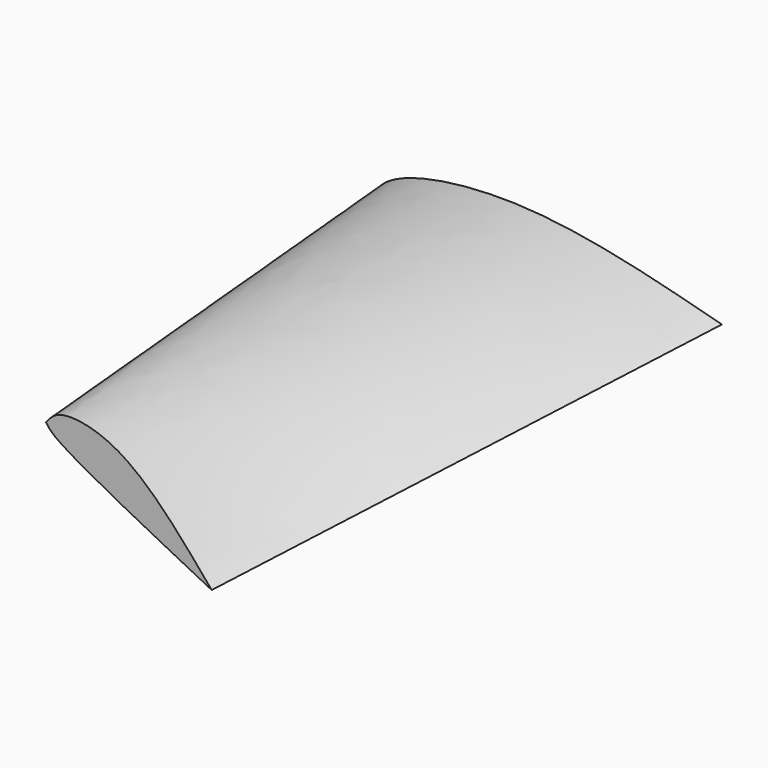
from build123d import *


with BuildPart() as f3:
    # F0 (on Front) → F3 section 0
    with BuildSketch(Plane.XZ):
        with BuildLine():
            add(Edge.make_bspline(
                [(-58.2351274788, 0), (-57.635624982, 3.5772535481), (-48.1657009493, 12.4011298851), (3.6110115175, 19.2634854332), (51.5301322159, 6.5342190648), (76.1276558042, 0)],
                knots=[0, 0, 0, 0, 0.1840456661, 0.5463531507, 1, 1, 1, 1], degree=3))
            add(Edge.make_bspline(
                [(-58.2351274788, 0), (-57.4846120807, -1.0596768675), (-55.6906869078, -3.592577608), (-46.5836299973, -5.1898536504), (-17.4956750196, -3.5273530193), (39.0154790782, -1.3982385317), (76.1276558042, 0)],
                knots=[0, 0, 0, 0, 0.1003009304, 0.2397450662, 0.5007230712, 1, 1, 1, 1], degree=3))
        make_face()
    # F2 (on offset) → F3 section 1
    with BuildSketch(Plane.XZ.offset(177.8)):
        with BuildLine():
            add(Edge.make_bspline(
                [(-43.3809496462, 0), (-42.099893407, 1.6863768719), (-38.4777347474, 6.454570807), (-11.7822108734, 2.5826951819), (8.4794538034, -21.6198559008), (20.7620877773, -36.2914577127)],
                knots=[0, 0, 0, 0, 0.1772850734, 0.5012696898, 1, 1, 1, 1], degree=3))
            add(Edge.make_bspline(
                [(-43.3809496462, 0), (-42.6242646805, -1.1049746909), (-39.1642306432, -6.1576058575), (-5.5224631591, -23.0743139789), (20.7620877773, -36.2914577127)],
                knots=[0, 0, 0, 0, 0.2186929254, 1, 1, 1, 1], degree=3))
        make_face()
    loft()


solid = f3.part
